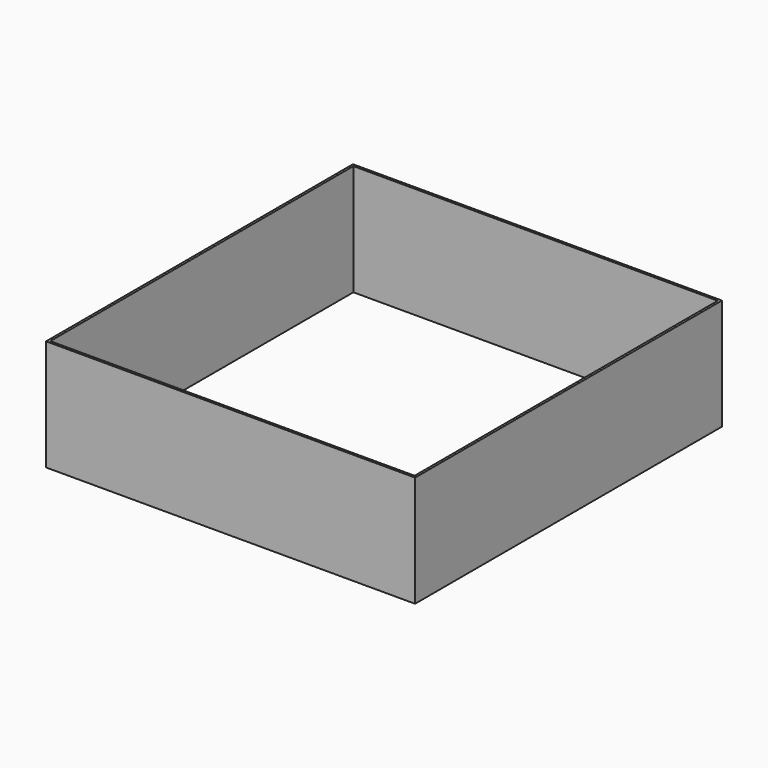
from build123d import *

# Parameters (mm, degrees)
F0_W     = 6.35
F0_H     = 6.35
F0_W_2   = 1000
F0_H_2   = 1040
F1_DEPTH = 304.8


with BuildPart() as f1:
    # F0 (on Top) → F1 (new body)
    with BuildSketch(Plane.XY):
        with Locations((-503.175, 523.175)):
            Rectangle(F0_W, F0_H)
        with Locations((503.175, 523.175)):
            Rectangle(F0_W, F0_H)
        with Locations((503.175, -523.175)):
            Rectangle(F0_W, F0_H)
        with Locations((-503.175, -523.175)):
            Rectangle(F0_W, F0_H)
        with Locations((0, 523.175)):
            Rectangle(F0_W_2, F0_H)
        with Locations((0, -523.175)):
            Rectangle(F0_W_2, F0_H)
        with Locations((503.175, 0)):
            Rectangle(F0_W, F0_H_2)
        with Locations((-503.175, 0)):
            Rectangle(F0_W, F0_H_2)
    extrude(amount=F1_DEPTH)


solid = f1.part
